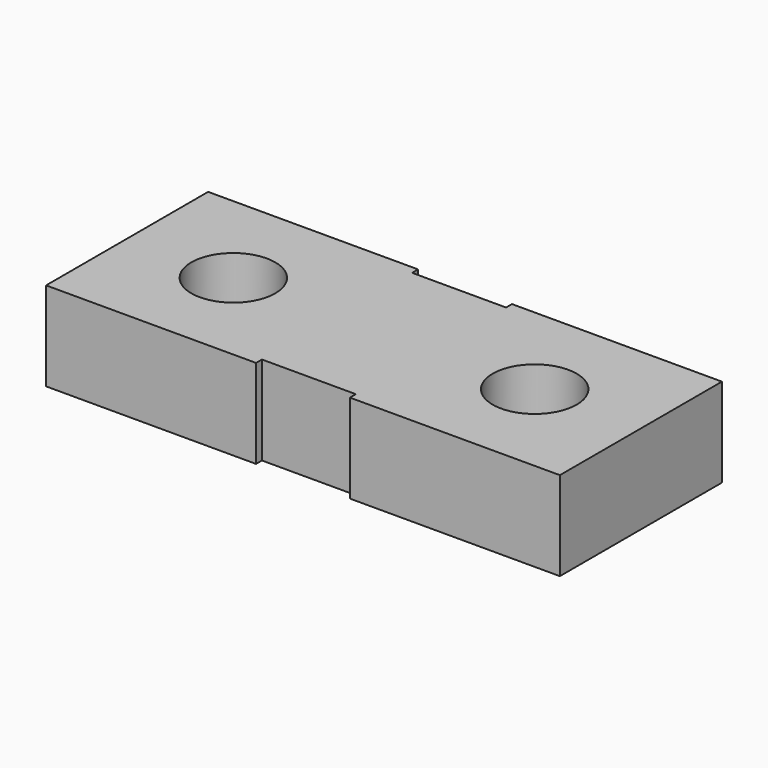
from build123d import *

# Parameters (mm, degrees)
F0_R     = 53.975
F1_DEPTH = 114.3


with BuildPart() as f1:
    # F0 (on Top) → F1 (new body)
    with BuildSketch(Plane.XY):
        Polygon((330.2, -130.175), (330.2, 130.175), (60.325, 130.175), (60.325, 120.65), (-60.325, 120.65), (-60.325, 130.175), (-330.2, 130.175), (-330.2, -130.175), (-60.325, -130.175), (-60.325, -120.65), (60.325, -120.65), (60.325, -130.175), align=None)
        with Locations((-193.675, 0)):
            Circle(F0_R, mode=Mode.SUBTRACT)
        with Locations((193.675, 0)):
            Circle(F0_R, mode=Mode.SUBTRACT)
    extrude(amount=F1_DEPTH)


solid = f1.part
